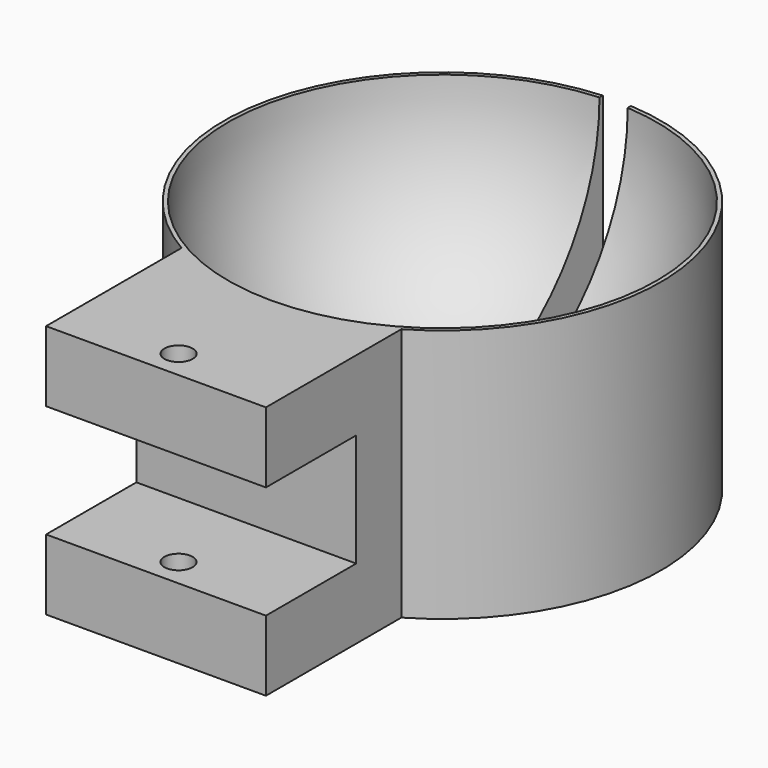
from build123d import *

# Parameters (mm, degrees)
F0_R          = 49.1744
F1_DEPTH      = 57.15
F4_W          = 6.35
F4_H          = 57.15
F5_DEPTH      = 127
F5_DEPTH_BACK = 17.018
F6_R          = 3.175
F7_DEPTH      = 57.15
F8_W          = 25.4
F8_H          = 25.4
F9_DEPTH      = 50.8


with BuildPart() as f1:
    # F0 (on Top) → F1 (new body)
    with BuildSketch(Plane.XY):
        Circle(F0_R)
    extrude(amount=F1_DEPTH)

    # F2 (on Front) → F3 (revolve, cut)
    with BuildSketch(Plane.XZ):
        with BuildLine():
            Line((0, 57.15), (-48.26, 57.15))
            ThreePointArc((-48.26, 57.15), (-34.1249732601, 23.0250267399), (0, 8.89))
            Line((0, 8.89), (0, 57.15))
        make_face()
    revolve(axis=Axis((0, 0, 33.02), (0, 0, -1)), mode=Mode.SUBTRACT)

    # F4 (on Front) → F5 (cut, two sides)
    with BuildSketch(Plane.XZ) as f5_sk:
        with Locations((0, 28.575)):
            Rectangle(F4_W, F4_H)
    extrude(amount=-F5_DEPTH, mode=Mode.SUBTRACT)
    extrude(f5_sk.sketch, amount=F5_DEPTH_BACK, mode=Mode.SUBTRACT)

    # F6 (on Top) → F7 (join)
    with BuildSketch(Plane.XY):
        with BuildLine():
            ThreePointArc((24.742076835, -42.4964851399), (0, -49.1744), (-24.742076835, -42.4964851399))
            Line((-24.742076835, -42.4964851399), (-24.742076835, -80.5964851399))
            Line((-24.742076835, -80.5964851399), (24.742076835, -80.5964851399))
            Line((24.742076835, -80.5964851399), (24.742076835, -42.4964851399))
        make_face()
        with Locations((0, -74.2464851399)):
            Circle(F6_R, mode=Mode.SUBTRACT)
    extrude(amount=F7_DEPTH)

    # F8 (on face) → F9 (cut)
    with BuildSketch(Plane(origin=(-24.742076835, 0, 0), x_dir=(0, -1, 0), z_dir=(-1, 0, 0))):
        with Locations((67.8964851399, 28.575)):
            Rectangle(F8_W, F8_H)
    extrude(amount=-F9_DEPTH, mode=Mode.SUBTRACT)


solid = f1.part
